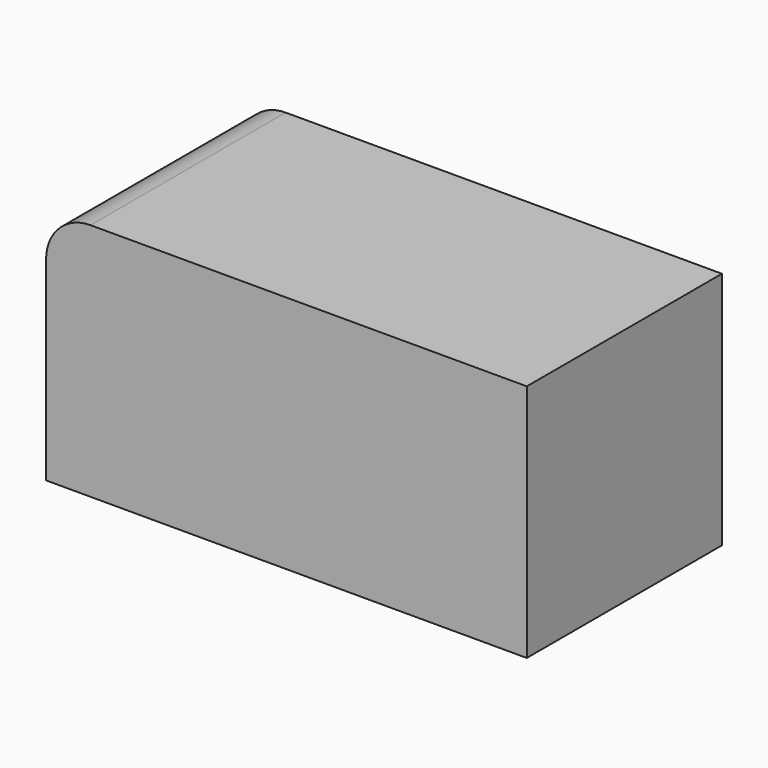
from build123d import *

# Parameters (mm, degrees)
F0_W     = 192.251563
F0_H     = 95.640446
F1_DEPTH = 48.768
F2_R     = 17.78


with BuildPart() as f1:
    # F0 (on Front) → F1 (new body, symmetric)
    with BuildSketch(Plane.XZ):
        with Locations((3.719732, 18.49782)):
            Rectangle(F0_W, F0_H)
    extrude(amount=F1_DEPTH, both=True)

    # F2
    f2_edges = [f1.edges().sort_by_distance(p)[0] for p in [
        (-92.406049, 0, 66.318043),
    ]]
    fillet(f2_edges, radius=F2_R)


solid = f1.part
